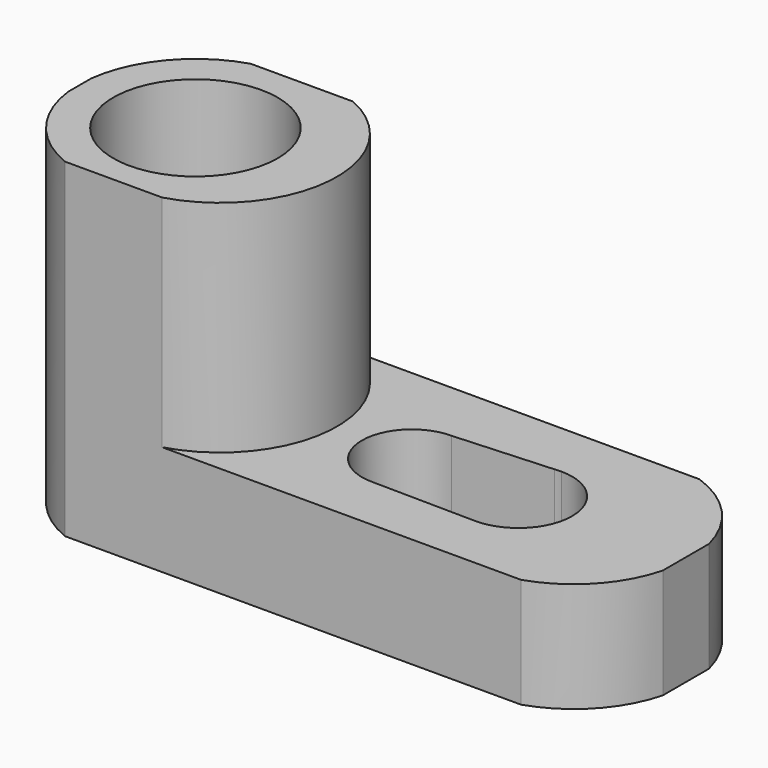
from build123d import *

# Parameters (mm, degrees)
F0_W     = 69.85
F0_H     = 38.1
F1_DEPTH = 25.4
F3_DEPTH = 38.101
F5_DEPTH = 25.4
F6_R     = 9.503883
F7_DEPTH = 38.101
F9_DEPTH = 12.701


with BuildPart() as f1:
    # F0 (on Front) → F1 (new body)
    with BuildSketch(Plane.XZ):
        with Locations((-7.206795, 19.05)):
            Rectangle(F0_W, F0_H)
    extrude(amount=F1_DEPTH)

    # F2 (on face) → F3 (cut, through all)
    with BuildSketch(Plane.XY.offset(38.1)):
        with BuildLine():
            ThreePointArc((-42.131795, -11.242362), (-39.065027, -4.218313), (-32.665953, 0))
            Line((-32.665953, 0), (-42.131795, 0))
            Line((-42.131795, 0), (-42.131795, -11.242362))
        make_face()
        with BuildLine():
            ThreePointArc((-33.817176, -25.4), (-39.447694, -21.112905), (-42.131795, -14.564811))
            Line((-42.131795, -14.564811), (-42.131795, -25.4))
            Line((-42.131795, -25.4), (-33.817176, -25.4))
        make_face()
        with BuildLine():
            Line((27.718205, -25.4), (27.718205, -15.992137))
            ThreePointArc((27.718205, -15.992137), (24.495171, -21.836901), (18.851276, -25.4))
            Line((18.851276, -25.4), (27.718205, -25.4))
        make_face()
        with BuildLine():
            Line((27.718205, 0), (19.139083, 0))
            ThreePointArc((19.139083, 0), (24.598614, -3.577897), (27.718205, -9.311655))
            Line((27.718205, -9.311655), (27.718205, 0))
        make_face()
    extrude(amount=-F3_DEPTH, mode=Mode.SUBTRACT)

    # F4 (on face) → F5 (cut)
    with BuildSketch(Plane.XY.offset(38.1)):
        with BuildLine():
            ThreePointArc((-20.865917, 0), (-12.835523, -13.304651), (-22.592751, -25.4))
            Line((-22.592751, -25.4), (18.851276, -25.4))
            ThreePointArc((18.851276, -25.4), (24.495171, -21.836901), (27.718205, -15.992137))
            Line((27.718205, -15.992137), (27.718205, -9.311655))
            ThreePointArc((27.718205, -9.311655), (24.598614, -3.577897), (19.139083, 0))
            Line((19.139083, 0), (-20.865917, 0))
        make_face()
    extrude(amount=-F5_DEPTH, mode=Mode.SUBTRACT)

    # F6 (on face) → F7 (cut, through all)
    with BuildSketch(Plane.XY.offset(38.1)):
        with Locations((-28.749728, -12.903587)):
            Circle(F6_R)
    extrude(amount=-F7_DEPTH, mode=Mode.SUBTRACT)

    # F8 (on face) → F9 (cut, through all)
    with BuildSketch(Plane.XY.offset(12.7)):
        with BuildLine():
            ThreePointArc((-3.597571, -18.851277), (0.472617, -17.16535), (2.158544, -13.095162))
            ThreePointArc((2.158544, -13.095162), (0.472617, -9.024974), (-3.597571, -7.339047))
            ThreePointArc((-3.597571, -7.339047), (-9.353686, -13.095162), (-3.597571, -18.851277))
        make_face()
        with BuildLine():
            ThreePointArc((-3.597571, -7.339047), (0.472617, -9.024974), (2.158544, -13.095162))
            ThreePointArc((2.158544, -13.095162), (0.472617, -17.16535), (-3.597571, -18.851277))
            Line((-3.597571, -18.851277), (8.330685, -19.004828))
            ThreePointArc((8.330685, -19.004828), (2.29775, -13.102009), (7.742962, -6.653036))
            Line((7.742962, -6.653036), (-3.597571, -7.339047))
        make_face()
        with BuildLine():
            Line((8.49027, -6.60783), (7.742962, -6.653036))
            ThreePointArc((7.742962, -6.653036), (2.29775, -13.102009), (8.330685, -19.004828))
            Line((8.330685, -19.004828), (8.49027, -19.006882))
            ThreePointArc((8.49027, -19.006882), (12.873997, -17.191083), (14.689796, -12.807356))
            ThreePointArc((14.689796, -12.807356), (12.873997, -8.423629), (8.49027, -6.60783))
        make_face()
        with BuildLine():
            ThreePointArc((8.49027, -6.60783), (8.115933, -6.619142), (7.742962, -6.653036))
            Line((7.742962, -6.653036), (8.49027, -6.60783))
        make_face()
        with BuildLine():
            Line((8.49027, -19.006882), (8.330685, -19.004828))
            ThreePointArc((8.330685, -19.004828), (8.410471, -19.006368), (8.49027, -19.006882))
        make_face()
    extrude(amount=-F9_DEPTH, mode=Mode.SUBTRACT)


solid = f1.part
